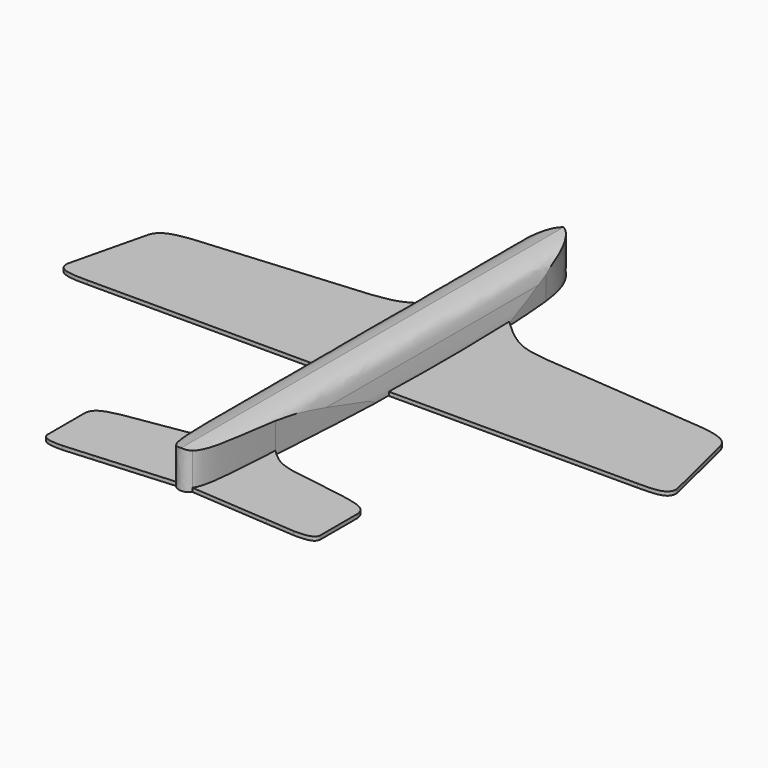
from build123d import *

# Parameters (mm, degrees)
F1_DEPTH = 12.7
F4_DEPTH = 173.3598951276
F5_DEPTH = 1.27


with BuildPart() as f1:
    # F0 (on Top) → F1 (new body)
    with BuildSketch(Plane.XY):
        with BuildLine():
            add(Edge.make_bspline(
                [(-7.4373558164, 67.8111314774), (-6.8987917817, 71.5359396768), (-5.9288399156, 77.7856679916), (-1.8068506615, 83.7957188487), (0, 84.4588950276)],
                knots=[0, 0, 0, 0, 0.5353397174, 1, 1, 1, 1], degree=3))
            add(Edge.make_bspline(
                [(-7.4373558164, 67.8111314774), (-7.8921876056, 62.9469203662), (-8.3458099101, 58.0807912723), (-8.6669279262, 50.7727824152)],
                knots=[0, 0, 0, 0, 0.1648705153, 0.1648705153, 0.1648705153, 0.1648705153], degree=3))
            add(Edge.make_bspline(
                [(-8.6669279262, 50.7727824152), (-9.2205380779, 38.1737138848), (-9.3803183337, 18.3168783479), (-8.8622998446, 0)],
                knots=[0.1648705153, 0.1648705153, 0.1648705153, 0.1648705153, 0.4491086656, 0.4491086656, 0.4491086656, 0.4491086656], degree=3))
            add(Edge.make_bspline(
                [(-8.8622998446, 0), (-8.4086817226, -16.0397131263), (-7.4353177493, -30.8985648744), (-6.5690657761, -44.8113883517)],
                knots=[0.4491086656, 0.4491086656, 0.4491086656, 0.4491086656, 0.6980101599, 0.6980101599, 0.6980101599, 0.6980101599], degree=3))
            add(Edge.make_bspline(
                [(-6.5690657761, -44.8113883517), (-6.4465039147, -46.7798474091), (-5.6515554694, -59.6497924915), (-5.0274272234, -71.7234011378), (-2.72790296, -74.8666152358)],
                knots=[0.6980101599, 0.6980101599, 0.6980101599, 0.6980101599, 0.7332260456, 0.9304910731, 0.9304910731, 0.9304910731, 0.9304910731], degree=3))
            add(Edge.make_bspline(
                [(-2.72790296, -74.8666152358), (-1.9176353419, -75.9741680636), (-0.8876125794, -76.2), (0, -76.2)],
                knots=[0.9304910731, 0.9304910731, 0.9304910731, 0.9304910731, 1, 1, 1, 1], degree=3))
            add(Edge.make_bspline(
                [(2.72790296, -74.8666152358), (1.9176353419, -75.9741680636), (0.8876125794, -76.2), (0, -76.2)],
                knots=[0.9304910731, 0.9304910731, 0.9304910731, 0.9304910731, 1, 1, 1, 1], degree=3))
            add(Edge.make_bspline(
                [(6.5690657761, -44.8113883517), (6.4465039147, -46.7798474091), (5.6515554694, -59.6497924915), (5.0274272234, -71.7234011378), (2.72790296, -74.8666152358)],
                knots=[0.6980101599, 0.6980101599, 0.6980101599, 0.6980101599, 0.7332260456, 0.9304910731, 0.9304910731, 0.9304910731, 0.9304910731], degree=3))
            add(Edge.make_bspline(
                [(8.8622998446, 0), (8.4086817226, -16.0397131263), (7.4353177493, -30.8985648744), (6.5690657761, -44.8113883517)],
                knots=[0.4491086656, 0.4491086656, 0.4491086656, 0.4491086656, 0.6980101599, 0.6980101599, 0.6980101599, 0.6980101599], degree=3))
            add(Edge.make_bspline(
                [(8.6669279262, 50.7727824152), (9.2205380779, 38.1737138848), (9.3803183337, 18.3168783479), (8.8622998446, 0)],
                knots=[0.1648705153, 0.1648705153, 0.1648705153, 0.1648705153, 0.4491086656, 0.4491086656, 0.4491086656, 0.4491086656], degree=3))
            add(Edge.make_bspline(
                [(7.4373558164, 67.8111314774), (7.8921876056, 62.9469203662), (8.3458099101, 58.0807912723), (8.6669279262, 50.7727824152)],
                knots=[0, 0, 0, 0, 0.1648705153, 0.1648705153, 0.1648705153, 0.1648705153], degree=3))
            add(Edge.make_bspline(
                [(7.4373558164, 67.8111314774), (6.8987917817, 71.5359396768), (5.9288399156, 77.7856679916), (1.8068506615, 83.7957188487), (0, 84.4588950276)],
                knots=[0, 0, 0, 0, 0.5353397174, 1, 1, 1, 1], degree=3))
        make_face()
    extrude(amount=F1_DEPTH)

    # F3 (on offset) → F4 (cut, through all)
    with BuildSketch(Plane.XZ.offset(88.9)):
        with BuildLine():
            add(Edge.make_bspline(
                [(-7.7752089128, 6.35), (-8.0832405589, 4.7501657299), (-8.5970194319, 2.081735201), (-8.6645964572, 0.5952685314), (-8.6916582659, 0)],
                knots=[0, 0, 0, 0, 0.5995412857, 1, 1, 1, 1], degree=3))
            add(Edge.make_bspline(
                [(-7.7752089128, 6.35), (-7.3169847019, 8.2988524809), (-6.9404324635, 11.2218537604), (-2.5049390169, 12.4715090073), (0, 12.7)],
                knots=[0, 0, 0, 0, 0.456890003, 1, 1, 1, 1], degree=3))
            add(Edge.make_bspline(
                [(7.7752089128, 6.35), (7.3169847019, 8.2988524809), (6.9404324635, 11.2218537604), (2.5049390169, 12.4715090073), (0, 12.7)],
                knots=[0, 0, 0, 0, 0.456890003, 1, 1, 1, 1], degree=3))
            add(Edge.make_bspline(
                [(7.7752089128, 6.35), (8.0832405589, 4.7501657299), (8.5970194319, 2.081735201), (8.6645964572, 0.5952685314), (8.6916582659, 0)],
                knots=[0, 0, 0, 0, 0.5995412857, 1, 1, 1, 1], degree=3))
            Line((8.6916582659, 0), (12.9340654239, 0))
            Line((12.9340654239, 0), (12.9340654239, 6.35))
            Line((12.9340654239, 6.35), (12.9340654239, 16.6966561228))
            Line((12.9340654239, 16.6966561228), (0, 16.6966561228))
            Line((0, 16.6966561228), (-12.9340654239, 16.6966561228))
            Line((-12.9340654239, 16.6966561228), (-12.9340654239, 0))
            Line((-12.9340654239, 0), (-8.6916582659, 0))
        make_face()
    extrude(amount=-F4_DEPTH, mode=Mode.SUBTRACT)

    # F0 (on Top) → F5 (join)
    with BuildSketch(Plane.XY):
        with BuildLine():
            add(Edge.make_bspline(
                [(-8.6669279262, 50.7727824152), (-9.2205380779, 38.1737138848), (-9.3803183337, 18.3168783479), (-8.8622998446, 0)],
                knots=[0.1648705153, 0.1648705153, 0.1648705153, 0.1648705153, 0.4491086656, 0.4491086656, 0.4491086656, 0.4491086656], degree=3))
            add(Edge.make_bspline(
                [(-29.2729420761, 40.1573261081), (-25.9806263146, 40.5490590386), (-18.8454851264, 41.3980267477), (-12.2299209456, 47.4911592592), (-8.6669279262, 50.7727824152)],
                knots=[0, 0, 0, 0, 0.4614226509, 1, 1, 1, 1], degree=3))
            Line((-29.2729420761, 40.1573261081), (-79.2822667698, 35.9594623259))
            Line((-79.2822667698, 35.9594623259), (-85.2231795349, 35.4607724779))
            add(Edge.make_bspline(
                [(-96.1326448238, 30.3765118162), (-95.7775283134, 31.3169969483), (-94.1214278314, 34.0281967985), (-89.141789787, 35.0335705503), (-85.2231795349, 35.4607724779)],
                knots=[0.1948375148, 0.1948375148, 0.1948375148, 0.1948375148, 0.3853999005, 0.7992738834, 0.7992738834, 0.7992738834, 0.7992738834], degree=3))
            Line((-96.1326448238, 30.3765118162), (-96.8727257974, 27.3125460255))
            Line((-96.8727257974, 27.3125460255), (-101.2038090959, 9.381682327))
            Line((-101.2038090959, 9.381682327), (-102.4786975727, 4.1035913894))
            add(Edge.make_bspline(
                [(-102.4786975727, 4.1035913894), (-102.5165110393, 3.2055940217), (-101.9216139121, 0.0907225891), (-96.5900103341, 0.0017220977), (-92.489694936, 0)],
                knots=[0.2924940113, 0.2924940113, 0.2924940113, 0.2924940113, 0.4642762939, 0.9795313608, 0.9795313608, 0.9795313608, 0.9795313608], degree=3))
            Line((-92.489694936, 0), (-92.0007154346, 0))
            Line((-92.0007154346, 0), (-8.8622998446, 0))
        make_face()
        with BuildLine():
            add(Edge.make_bspline(
                [(29.2729420761, 40.1573261081), (25.9806263146, 40.5490590386), (18.8454851264, 41.3980267477), (12.2299209456, 47.4911592592), (8.6669279262, 50.7727824152)],
                knots=[0, 0, 0, 0, 0.4614226509, 1, 1, 1, 1], degree=3))
            add(Edge.make_bspline(
                [(8.6669279262, 50.7727824152), (9.2205380779, 38.1737138848), (9.3803183337, 18.3168783479), (8.8622998446, 0)],
                knots=[0.1648705153, 0.1648705153, 0.1648705153, 0.1648705153, 0.4491086656, 0.4491086656, 0.4491086656, 0.4491086656], degree=3))
            Line((8.8622998446, 0), (92.0007154346, 0))
            Line((92.0007154346, 0), (92.489694936, 0))
            add(Edge.make_bspline(
                [(102.4786975727, 4.1035913894), (102.5165110393, 3.2055940217), (101.9216139121, 0.0907225891), (96.5900103341, 0.0017220977), (92.489694936, 0)],
                knots=[0.2924940113, 0.2924940113, 0.2924940113, 0.2924940113, 0.4642762939, 0.9795313608, 0.9795313608, 0.9795313608, 0.9795313608], degree=3))
            Line((102.4786975727, 4.1035913894), (101.2038090959, 9.381682327))
            Line((101.2038090959, 9.381682327), (96.8727257974, 27.3125460255))
            Line((96.8727257974, 27.3125460255), (96.1326448238, 30.3765118162))
            add(Edge.make_bspline(
                [(96.1326448238, 30.3765118162), (95.7775283134, 31.3169969483), (94.1214278314, 34.0281967985), (89.141789787, 35.0335705503), (85.2231795349, 35.4607724779)],
                knots=[0.1948375148, 0.1948375148, 0.1948375148, 0.1948375148, 0.3853999005, 0.7992738834, 0.7992738834, 0.7992738834, 0.7992738834], degree=3))
            Line((85.2231795349, 35.4607724779), (79.2822667698, 35.9594623259))
            Line((79.2822667698, 35.9594623259), (29.2729420761, 40.1573261081))
        make_face()
        with BuildLine():
            add(Edge.make_bspline(
                [(16.6988665488, -50.7952436237), (14.9294728658, -50.3056803679), (11.2516070696, -49.2880730535), (8.168771992, -46.3407673566), (6.5690657761, -44.8113883517)],
                knots=[0, 0, 0, 0, 0.4810925088, 1, 1, 1, 1], degree=3))
            add(Edge.make_bspline(
                [(6.5690657761, -44.8113883517), (6.4465039147, -46.7798474091), (5.6515554694, -59.6497924915), (5.0274272234, -71.7234011378), (2.72790296, -74.8666152358)],
                knots=[0.6980101599, 0.6980101599, 0.6980101599, 0.6980101599, 0.7332260456, 0.9304910731, 0.9304910731, 0.9304910731, 0.9304910731], degree=3))
            Line((2.72790296, -74.8666152358), (29.1594175585, -76.7956260123))
            Line((29.1594175585, -76.7956260123), (38.8813660462, -77.5051480993))
            add(Edge.make_bspline(
                [(45.8506643772, -75.1168602092), (45.7666276698, -75.6512003013), (45.0876160142, -77.2146436918), (41.7941123643, -77.5578215225), (38.8813660462, -77.5051480993)],
                knots=[0.1569058115, 0.1569058115, 0.1569058115, 0.1569058115, 0.3101096844, 0.659167152, 0.659167152, 0.659167152, 0.659167152], degree=3))
            Line((45.8506643772, -75.1168602092), (45.8506643772, -73.3545944095))
            Line((45.8506643772, -73.3545944095), (45.8506643772, -62.0539076626))
            Line((45.8506643772, -62.0539076626), (45.8506643772, -59.3484954281))
            add(Edge.make_bspline(
                [(45.8506643772, -59.3484954281), (45.7492500316, -58.4523138506), (44.7675580829, -55.3551845369), (39.1634297401, -54.4117777538), (35.0467346113, -53.7187675529)],
                knots=[0.2023646912, 0.2023646912, 0.2023646912, 0.2023646912, 0.4140709867, 1, 1, 1, 1], degree=3))
            Line((35.0467346113, -53.7187675529), (16.6988665488, -50.7952436237))
        make_face()
        with BuildLine():
            add(Edge.make_bspline(
                [(-6.5690657761, -44.8113883517), (-6.4465039147, -46.7798474091), (-5.6515554694, -59.6497924915), (-5.0274272234, -71.7234011378), (-2.72790296, -74.8666152358)],
                knots=[0.6980101599, 0.6980101599, 0.6980101599, 0.6980101599, 0.7332260456, 0.9304910731, 0.9304910731, 0.9304910731, 0.9304910731], degree=3))
            add(Edge.make_bspline(
                [(-16.6988665488, -50.7952436237), (-14.9294728658, -50.3056803679), (-11.2516070696, -49.2880730535), (-8.168771992, -46.3407673566), (-6.5690657761, -44.8113883517)],
                knots=[0, 0, 0, 0, 0.4810925088, 1, 1, 1, 1], degree=3))
            Line((-16.6988665488, -50.7952436237), (-35.0467346113, -53.7187675529))
            add(Edge.make_bspline(
                [(-45.8506643772, -59.3484954281), (-45.7492500316, -58.4523138506), (-44.7675580829, -55.3551845369), (-39.1634297401, -54.4117777538), (-35.0467346113, -53.7187675529)],
                knots=[0.2023646912, 0.2023646912, 0.2023646912, 0.2023646912, 0.4140709867, 1, 1, 1, 1], degree=3))
            Line((-45.8506643772, -59.3484954281), (-45.8506643772, -62.0539076626))
            Line((-45.8506643772, -62.0539076626), (-45.8506643772, -73.3545944095))
            Line((-45.8506643772, -73.3545944095), (-45.8506643772, -75.1168602092))
            add(Edge.make_bspline(
                [(-45.8506643772, -75.1168602092), (-45.7666276698, -75.6512003013), (-45.0876160142, -77.2146436918), (-41.7941123643, -77.5578215225), (-38.8813660462, -77.5051480993)],
                knots=[0.1569058115, 0.1569058115, 0.1569058115, 0.1569058115, 0.3101096844, 0.659167152, 0.659167152, 0.659167152, 0.659167152], degree=3))
            Line((-38.8813660462, -77.5051480993), (-29.1594175585, -76.7956260123))
            Line((-29.1594175585, -76.7956260123), (-2.72790296, -74.8666152358))
        make_face()
    extrude(amount=F5_DEPTH)


solid = f1.part
